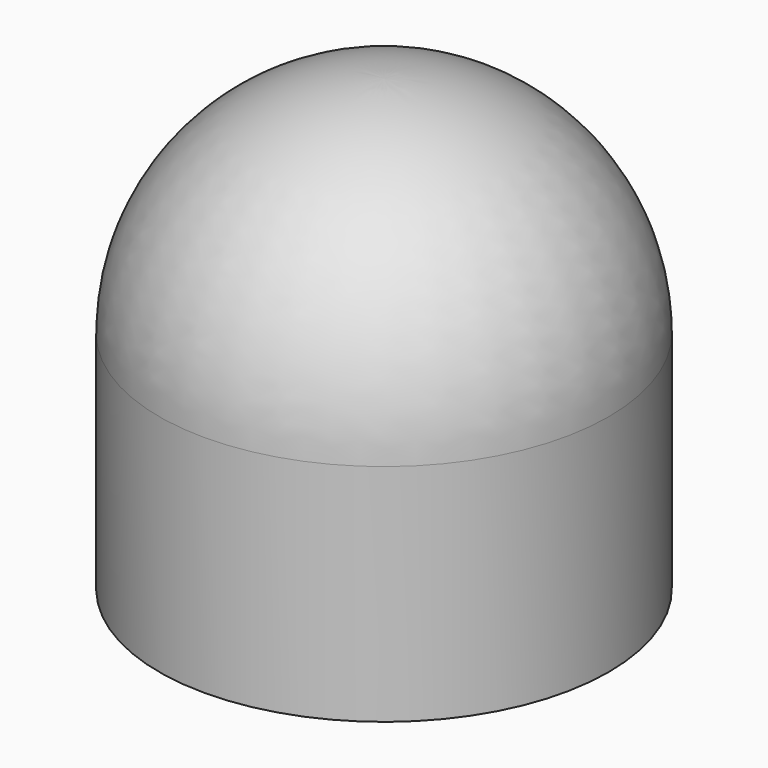
from build123d import *

# Parameters (mm, degrees)
F2_T = -4.5


with BuildPart() as f1:
    # F0 (on Front) → F1 (revolve)
    with BuildSketch(Plane.XZ):
        with BuildLine():
            ThreePointArc((0, 160), (-56.568542, 136.568542), (-80, 80))
            Line((-80, 80), (-80, 0))
            Line((-80, 0), (0, 0))
            Line((0, 0), (0, 160))
        make_face()
    revolve(axis=Axis((0, 0, 80), (0, 0, 1)))

    # F2
    f2_openings = [f1.faces().sort_by_distance(p)[0] for p in [
        (0, 0, 0),
    ]]
    offset(amount=F2_T, openings=f2_openings)


solid = f1.part
